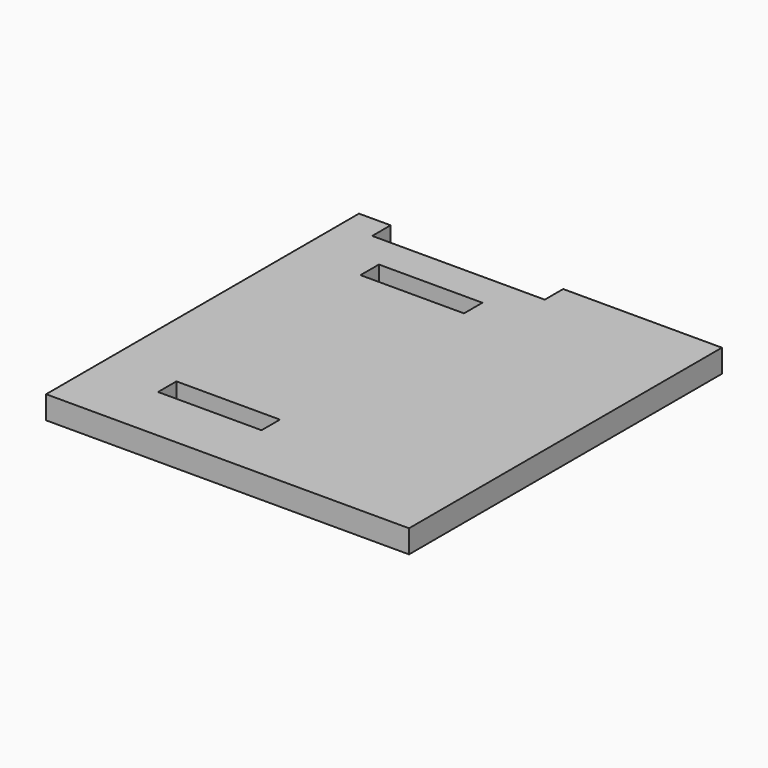
from build123d import *

# Parameters (mm, degrees)
SKETCH328_W      = 15
SKETCH328_H      = 2
EXTRUDE197_DEPTH = 10
SKETCH327_W      = 9
SKETCH327_H      = 2
EXTRUDE196_DEPTH = 3
SKETCH326_W      = 31.550661
SKETCH326_H      = 34
EXTRUDE195_DEPTH = 2


with BuildPart() as extrude197:
    # Sketch328 → Extrude197 (new body)
    with BuildSketch(Plane(origin=(24.75, 6, 23), x_dir=(1, 0, 0), z_dir=(0, 0, 1))):
        with Locations((-69.5, 10)):
            Rectangle(SKETCH328_W, SKETCH328_H)
    extrude(amount=EXTRUDE197_DEPTH)


with BuildPart() as extrude197_1:
    # Extrude197 placement: moved
    add(extrude197.part.moved(Location((0, 0, -10))))


with BuildPart() as extrude196:
    # Sketch327 → Extrude196 (new body)
    with BuildSketch(Plane(origin=(-0.27, 0, 26), x_dir=(1, 0, 0), z_dir=(0, 0, 1))):
        with Locations((-44.5, 11)):
            Rectangle(SKETCH327_W, SKETCH327_H)
        with Locations((-44.5, -11)):
            Rectangle(SKETCH327_W, SKETCH327_H)
    extrude(amount=EXTRUDE196_DEPTH)


with BuildPart() as obj1:
    # Sketch326 → Extrude195 (new body)
    with BuildSketch(Plane.XY.offset(26)):
        with Locations((-39.224669, 0)):
            Rectangle(SKETCH326_W, SKETCH326_H)
    extrude(amount=EXTRUDE195_DEPTH)

    # Cut104: cut Extrude196
    add(extrude196.part, mode=Mode.SUBTRACT)


with BuildPart() as obj1_1:
    # Cut104 placement: moved
    add(obj1.part.moved(Location((0, 0, -10))))

    # Cut105: cut Extrude197
    add(extrude197_1.part, mode=Mode.SUBTRACT)


solid = obj1_1.part
